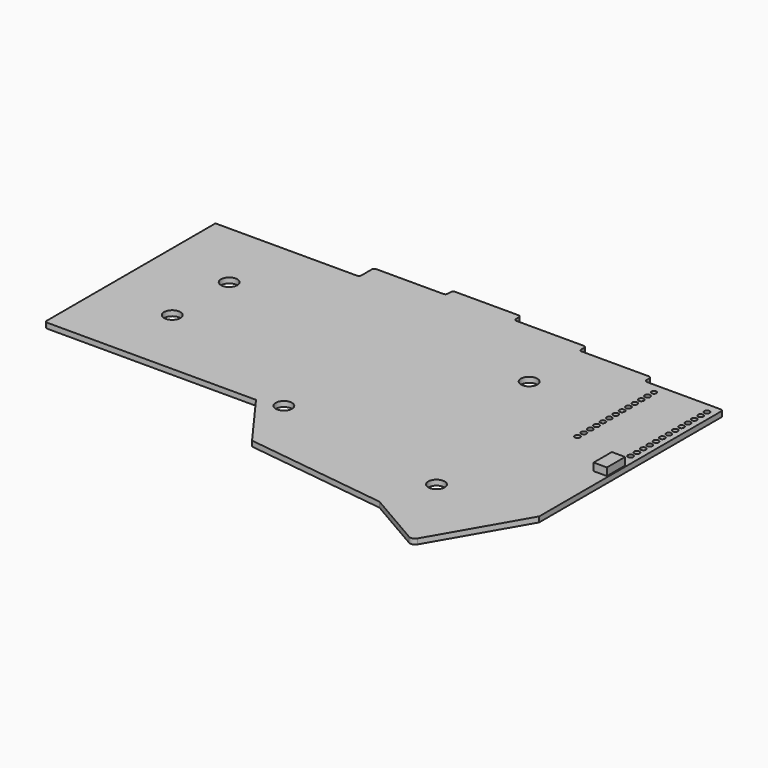
from build123d import *

# Parameters (mm, degrees)
MIRROREDSKETCH005_R = 2.15
PAD021_DEPTH        = 1.4
SKETCH093_R         = 0.7
SKETCH093_R_2       = 0.644462
SKETCH093_R_3       = 0.731859
POCKET013_DEPTH     = 1.401
PAD024_DEPTH        = 2


with BuildPart() as part:
    # MirroredSketch005 → Pad021 (new body)
    with BuildSketch(Plane.XY):
        with BuildLine():
            Line((0, 56.25), (0, 0.632))
            ThreePointArc((0, 0.632), (0.185109, 0.185109), (0.632, 0))
            Line((0.632, 0), (55.698332, 0))
            Line((55.698332, 0), (66.424272, -14.703544))
            Line((66.424272, -14.703544), (103.928425, -19.581139))
            Line((103.928425, -19.581139), (118.436579, -27.974316))
            ThreePointArc((118.436579, -27.974316), (119.477427, -28.111715), (120.309905, -27.472009))
            Line((120.309905, -27.472009), (133.73, -4.162))
            Line((133.73, -4.162), (133.73, 55.868))
            ThreePointArc((133.73, 55.868), (133.544891, 56.314891), (133.098, 56.5))
            Line((133.098, 56.5), (113.612, 56.5))
            ThreePointArc((112.98, 57.132), (113.165109, 56.685109), (113.612, 56.5))
            Line((112.98, 57.132), (112.98, 58.118))
            ThreePointArc((112.98, 58.118), (112.794891, 58.564891), (112.348, 58.75))
            Line((112.348, 58.75), (94.612, 58.75))
            ThreePointArc((93.98, 59.382), (94.165109, 58.935109), (94.612, 58.75))
            Line((93.98, 59.382), (93.98, 60.368))
            ThreePointArc((93.98, 60.368), (93.794891, 60.814891), (93.348, 61))
            Line((93.348, 61), (75.612, 61))
            ThreePointArc((74.98, 61.632), (75.165109, 61.185109), (75.612, 61))
            Line((74.98, 61.632), (74.98, 62.618))
            ThreePointArc((74.98, 62.618), (74.794891, 63.064891), (74.348, 63.25))
            Line((74.348, 63.25), (57.612, 63.25))
            ThreePointArc((57.612, 63.25), (57.165109, 63.064891), (56.98, 62.618))
            Line((56.98, 62.618), (56.98, 61.632))
            ThreePointArc((56.348, 61), (56.794891, 61.185109), (56.98, 61.632))
            Line((56.348, 61), (38.612, 61))
            ThreePointArc((38.612, 61), (38.165109, 60.814891), (37.98, 60.368))
            Line((37.98, 60.368), (37.98, 56.882))
            ThreePointArc((37.348, 56.25), (37.794891, 56.435109), (37.98, 56.882))
            Line((37.348, 56.25), (0, 56.25))
        make_face()
        with Locations((18.61, 37.509997)):
            Circle(MIRROREDSKETCH005_R, mode=Mode.SUBTRACT)
        with Locations((18.6, 18.76)):
            Circle(MIRROREDSKETCH005_R, mode=Mode.SUBTRACT)
        with Locations((108.3, -6.24)):
            Circle(MIRROREDSKETCH005_R, mode=Mode.SUBTRACT)
        with Locations((94.55, 41.5)):
            Circle(MIRROREDSKETCH005_R, mode=Mode.SUBTRACT)
        with Locations((61.84, 1.51)):
            Circle(MIRROREDSKETCH005_R, mode=Mode.SUBTRACT)
    extrude(amount=PAD021_DEPTH)

    # Sketch093 (on Face38 of Pad021) → Pocket013 (cut, through all)
    with BuildSketch(Plane.XY.offset(1.4)):
        with Locations((131.63, 53.8)):
            Circle(SKETCH093_R)
        with Locations((131.63, 51.7)):
            Circle(SKETCH093_R)
        with Locations((131.63, 49.6)):
            Circle(SKETCH093_R)
        with Locations((131.63, 47.5)):
            Circle(SKETCH093_R)
        with Locations((131.63, 45.4)):
            Circle(SKETCH093_R)
        with Locations((131.63, 43.3)):
            Circle(SKETCH093_R)
        with Locations((131.63, 41.2)):
            Circle(SKETCH093_R)
        with Locations((131.63, 39.1)):
            Circle(SKETCH093_R)
        with Locations((131.63, 37)):
            Circle(SKETCH093_R)
        with Locations((131.63, 34.9)):
            Circle(SKETCH093_R)
        with Locations((131.63, 32.8)):
            Circle(SKETCH093_R)
        with Locations((131.63, 30.7)):
            Circle(SKETCH093_R)
        with Locations((131.63, 28.6)):
            Circle(SKETCH093_R)
        with Locations((117.63, 53.8)):
            Circle(SKETCH093_R_2)
        with Locations((117.63, 51.7)):
            Circle(SKETCH093_R)
        with Locations((117.63, 49.6)):
            Circle(SKETCH093_R)
        with Locations((117.63, 47.5)):
            Circle(SKETCH093_R)
        with Locations((117.63, 45.4)):
            Circle(SKETCH093_R)
        with Locations((117.63, 43.3)):
            Circle(SKETCH093_R)
        with Locations((117.63, 41.2)):
            Circle(SKETCH093_R)
        with Locations((117.63, 39.1)):
            Circle(SKETCH093_R)
        with Locations((117.63, 37)):
            Circle(SKETCH093_R)
        with Locations((117.63, 34.868141)):
            Circle(SKETCH093_R_3)
        with Locations((117.63, 32.8)):
            Circle(SKETCH093_R)
        with Locations((117.63, 30.7)):
            Circle(SKETCH093_R)
        with Locations((117.63, 28.6)):
            Circle(SKETCH093_R)
    extrude(amount=-POCKET013_DEPTH, mode=Mode.SUBTRACT)

    # Sketch101 (on Face5 of Pocket013) → Pad024 (join)
    with BuildSketch(Plane.XY.offset(1.4)):
        Polygon((129.88, 24.6), (129.88, 18.6), (133.38, 18.6), (133.38, 24.6), (131.63, 24.6), align=None)
    extrude(amount=PAD024_DEPTH)


with BuildPart() as part_1:
    # Body005 placement: moved
    add(part.part.moved(Location((0, 0, 2))))


solid = part_1.part
